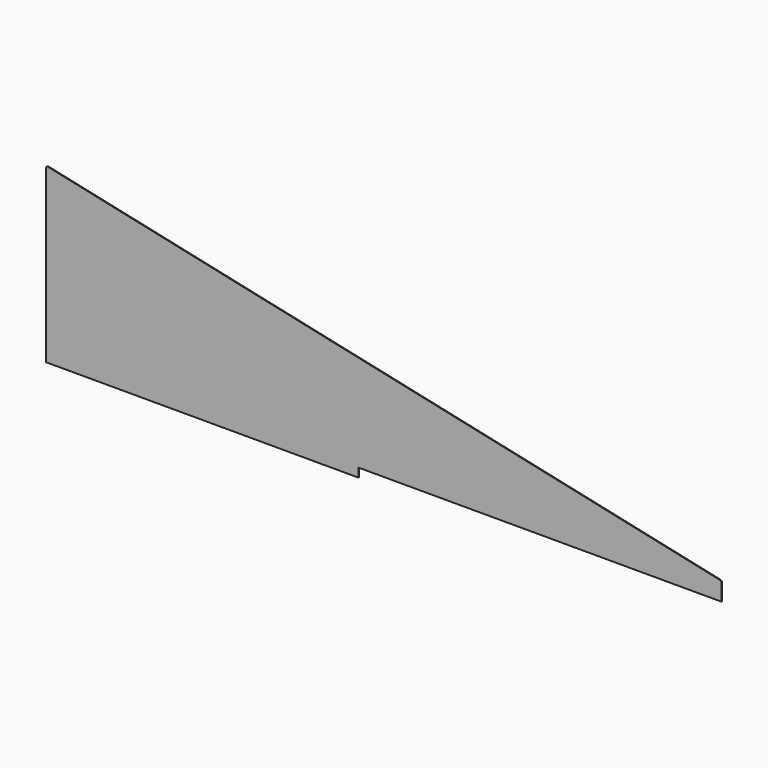
from build123d import *

# Parameters (mm, degrees)
F1_DEPTH = 2


with BuildPart() as f1:
    # F0 (on Front) → F1 (new body)
    with BuildSketch(Plane.XZ):
        with BuildLine():
            Line((0, -34), (0, 0))
            Line((0, 0), (0, 15.965007))
            ThreePointArc((0, 15.965007), (-1.108975, 19.105059), (-3.94397, 20.852215))
            Line((-3.94397, 20.852215), (-1983.94397, 448.691411))
            ThreePointArc((-1983.94397, 448.691411), (-1988.140052, 447.695228), (-1990, 443.804203))
            Line((-1990, 443.804203), (-1990, 0))
            Line((-1990, 0), (-1990, -60))
            Line((-1990, -60), (-1070, -60))
            Line((-1070, -60), (-1070, -34))
            Line((-1070, -34), (0, -34))
        make_face()
    extrude(amount=F1_DEPTH)


solid = f1.part
